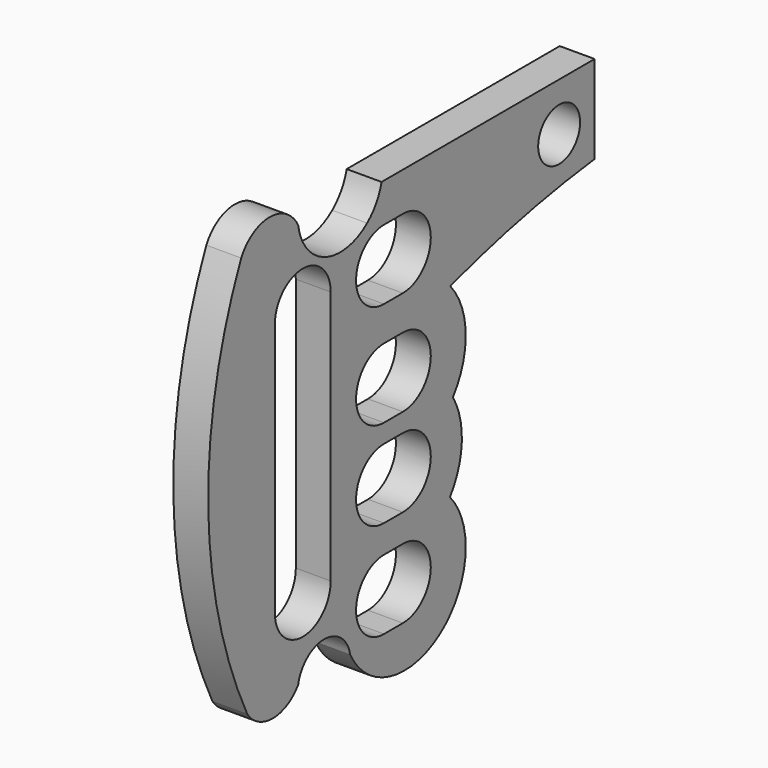
from build123d import *

# Parameters (mm, degrees)
F0_R     = 4.7625
F1_DEPTH = 6.35


with BuildPart() as f1:
    # F0 (on Right) → F1 (new body)
    with BuildSketch(Plane.YZ):
        with BuildLine():
            ThreePointArc((-11.848403, 23.829933), (-18.326083, 27.751112), (-24.803763, 23.829933))
            ThreePointArc((-24.803763, 23.829933), (-32.300177, -13.148098), (-23.421064, -49.818691))
            ThreePointArc((-23.421064, -49.818691), (-17.634734, -52.852522), (-11.848403, -49.818691))
            ThreePointArc((-11.848403, -49.818691), (-5.924202, -44.915427), (0, -49.818691))
            ThreePointArc((0, -49.818691), (11.494019, -57.343068), (23.818461, -51.27373))
            ThreePointArc((23.818461, -51.27373), (26.242733, -42.339082), (22.68626, -33.791771))
            ThreePointArc((22.68626, -33.791771), (25.380116, -26.025603), (23.353086, -18.059337))
            ThreePointArc((23.353086, -18.059337), (26.264627, -8.922109), (22.748668, 0))
            ThreePointArc((22.748668, 0), (39.011453, 4.25354), (55.593815, 7.009636))
            Line((55.593815, 7.009636), (55.593815, 23.038804))
            Line((55.593815, 23.038804), (7.122552, 23.038804))
            ThreePointArc((7.122552, 23.038804), (5.913835, 20.136938), (3.837954, 17.776314))
            ThreePointArc((3.837954, 17.776314), (-5.767489, 16.236681), (-11.848403, 23.829933))
        make_face()
        with BuildLine():
            Line((11.972429, -49.613284), (7.676588, -49.613284))
            ThreePointArc((7.676588, -49.613284), (1.326588, -43.263284), (7.676588, -36.913284))
            Line((7.676588, -36.913284), (11.972429, -36.913284))
            ThreePointArc((11.972429, -36.913284), (18.322429, -43.263284), (11.972429, -49.613284))
        make_face(mode=Mode.SUBTRACT)
        with BuildLine():
            Line((11.972429, -31.847708), (7.676588, -31.847708))
            ThreePointArc((7.676588, -31.847708), (1.326588, -25.497708), (7.676588, -19.147708))
            Line((7.676588, -19.147708), (11.972429, -19.147708))
            ThreePointArc((11.972429, -19.147708), (18.322429, -25.497708), (11.972429, -31.847708))
        make_face(mode=Mode.SUBTRACT)
        with BuildLine():
            Line((-17.149631, -36.194362), (-17.149631, 10.099374))
            ThreePointArc((-17.149631, 10.099374), (-10.799631, 16.449374), (-4.449631, 10.099374))
            Line((-4.449631, 10.099374), (-4.449631, -36.194362))
            ThreePointArc((-4.449631, -36.194362), (-10.799631, -42.544362), (-17.149631, -36.194362))
        make_face(mode=Mode.SUBTRACT)
        with BuildLine():
            Line((11.972429, -15.750447), (7.676588, -15.750447))
            ThreePointArc((7.676588, -15.750447), (1.326588, -9.400447), (7.676588, -3.050447))
            Line((7.676588, -3.050447), (11.972429, -3.050447))
            ThreePointArc((11.972429, -3.050447), (18.322429, -9.400447), (11.972429, -15.750447))
        make_face(mode=Mode.SUBTRACT)
        with BuildLine():
            Line((11.972429, 3.256101), (7.676588, 3.256101))
            ThreePointArc((7.676588, 3.256101), (1.326588, 9.606101), (7.676588, 15.956101))
            Line((7.676588, 15.956101), (11.972429, 15.956101))
            ThreePointArc((11.972429, 15.956101), (18.322429, 9.606101), (11.972429, 3.256101))
        make_face(mode=Mode.SUBTRACT)
        with Locations((47.518816, 14.242276)):
            Circle(F0_R, mode=Mode.SUBTRACT)
    extrude(amount=F1_DEPTH)


solid = f1.part
